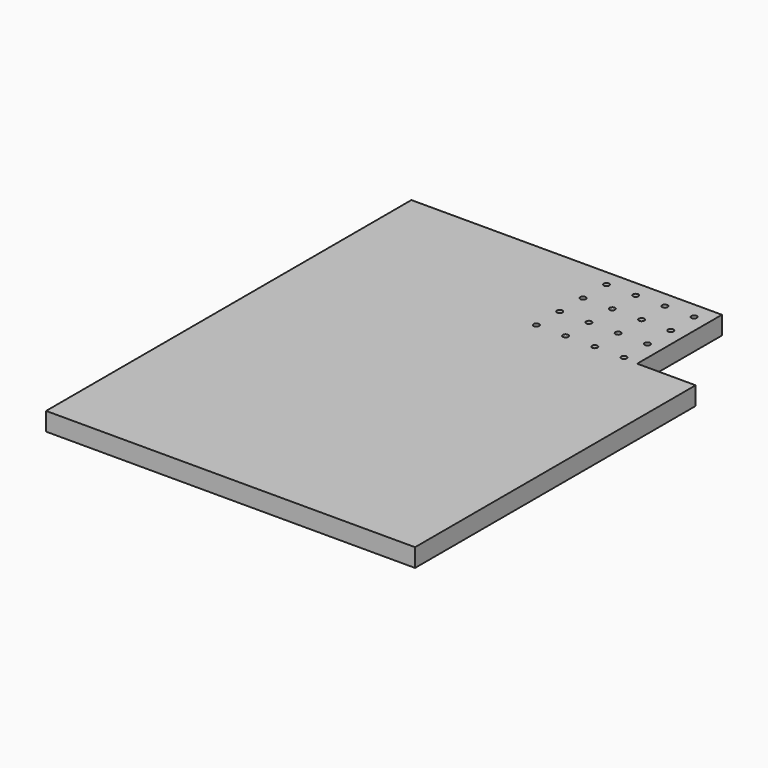
from build123d import *

# Parameters (mm, degrees)
F0_R     = 1.5
F1_DEPTH = 10


with BuildPart() as f1:
    # F0 (on Top) → F1 (new body)
    with BuildSketch(Plane.XY):
        Polygon((170, 158.5), (0, 158.5), (0, -91.5), (202, -91.5), (202, 100.5), (170, 100.5), align=None)
        with Locations((114, 101.5)):
            Circle(F0_R, mode=Mode.SUBTRACT)
        with Locations((114, 117.5)):
            Circle(F0_R, mode=Mode.SUBTRACT)
        with Locations((130, 101.5)):
            Circle(F0_R, mode=Mode.SUBTRACT)
        with Locations((146, 101.5)):
            Circle(F0_R, mode=Mode.SUBTRACT)
        with Locations((130, 117.5)):
            Circle(F0_R, mode=Mode.SUBTRACT)
        with Locations((146, 117.5)):
            Circle(F0_R, mode=Mode.SUBTRACT)
        with Locations((114, 133.5)):
            Circle(F0_R, mode=Mode.SUBTRACT)
        with Locations((114, 149.5)):
            Circle(F0_R, mode=Mode.SUBTRACT)
        with Locations((130, 133.5)):
            Circle(F0_R, mode=Mode.SUBTRACT)
        with Locations((146, 133.5)):
            Circle(F0_R, mode=Mode.SUBTRACT)
        with Locations((130, 149.5)):
            Circle(F0_R, mode=Mode.SUBTRACT)
        with Locations((146, 149.5)):
            Circle(F0_R, mode=Mode.SUBTRACT)
        with Locations((162, 101.5)):
            Circle(F0_R, mode=Mode.SUBTRACT)
        with Locations((162, 117.5)):
            Circle(F0_R, mode=Mode.SUBTRACT)
        with Locations((162, 133.5)):
            Circle(F0_R, mode=Mode.SUBTRACT)
        with Locations((162, 149.5)):
            Circle(F0_R, mode=Mode.SUBTRACT)
    extrude(amount=F1_DEPTH)


solid = f1.part
